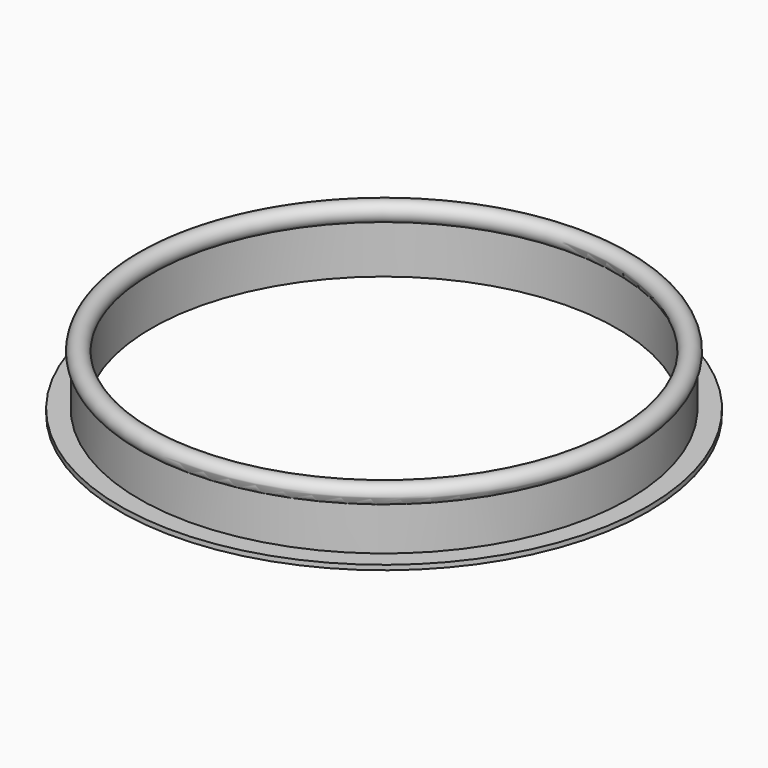
from build123d import *


with BuildPart() as f1:
    # F0 (on Front) → F1 (revolve)
    with BuildSketch(Plane.XZ):
        with BuildLine():
            ThreePointArc((10.2, 2), (9.95, 2.71225), (9.7, 2))
            Line((9.7, 2), (9.7, 0))
            Line((9.7, 0), (11, 0))
            Line((11, 0), (11, 0.2))
            Line((11, 0.2), (10.2, 0.2))
            Line((10.2, 0.2), (10.2, 2))
        make_face()
    revolve(axis=Axis((0, 0, 6.027143), (0, 0, 1)))


solid = f1.part
